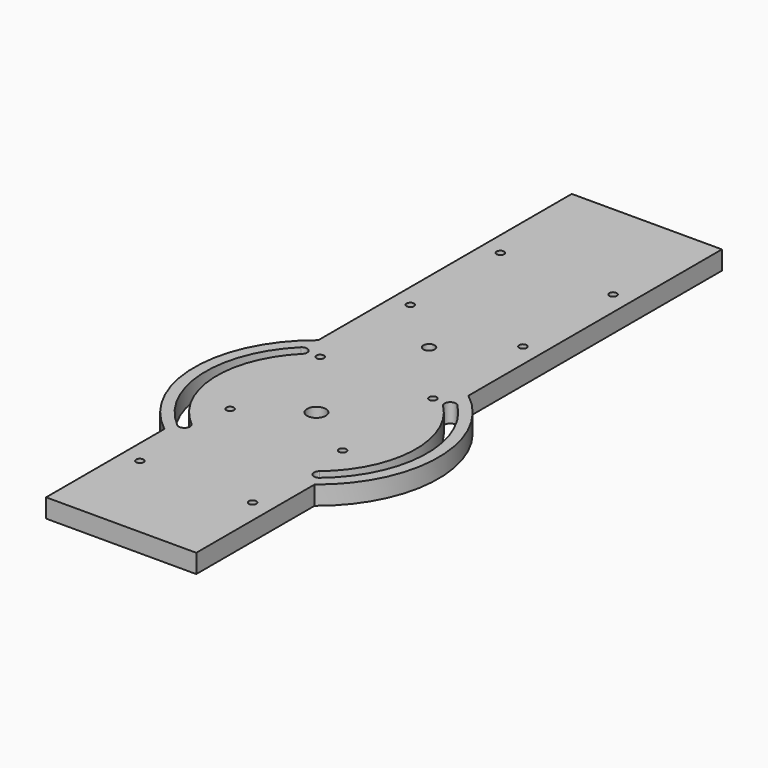
from build123d import *

# Parameters (mm, degrees)
SKETCH_R   = 2
SKETCH_R_2 = 5
SKETCH_R_3 = 3
PAD_DEPTH  = 10


with BuildPart() as part:
    # Sketch → Pad (new body)
    with BuildSketch(Plane.XY):
        with BuildLine():
            Line((0, 0), (80, 0))
            Line((80, 0), (80, 78.765246))
            ThreePointArc((80, 78.765246), (105, 130), (80, 181.234754))
            Line((80, 181.234754), (80, 350))
            Line((80, 350), (0, 350))
            Line((0, 350), (0, 181.234754))
            ThreePointArc((0, 181.234754), (-25, 130), (0, 78.765246))
            Line((0, 78.765246), (0, 0))
        make_face()
        with Locations((10, 50)):
            Circle(SKETCH_R, mode=Mode.SUBTRACT)
        with Locations((10, 110)):
            Circle(SKETCH_R, mode=Mode.SUBTRACT)
        with Locations((10, 170)):
            Circle(SKETCH_R, mode=Mode.SUBTRACT)
        with Locations((10, 230)):
            Circle(SKETCH_R, mode=Mode.SUBTRACT)
        with Locations((10, 290)):
            Circle(SKETCH_R, mode=Mode.SUBTRACT)
        with Locations((70, 50)):
            Circle(SKETCH_R, mode=Mode.SUBTRACT)
        with Locations((70, 110)):
            Circle(SKETCH_R, mode=Mode.SUBTRACT)
        with Locations((70, 170)):
            Circle(SKETCH_R, mode=Mode.SUBTRACT)
        with Locations((70, 230)):
            Circle(SKETCH_R, mode=Mode.SUBTRACT)
        with Locations((70, 290)):
            Circle(SKETCH_R, mode=Mode.SUBTRACT)
        with Locations((40, 130)):
            Circle(SKETCH_R_2, mode=Mode.SUBTRACT)
        with Locations((40, 205)):
            Circle(SKETCH_R_3, mode=Mode.SUBTRACT)
        with BuildLine():
            ThreePointArc((-1.7193, 171.7193), (-18.943845, 127.426456), (2.075531, 84.803378))
            ThreePointArc((2.075531, 84.803378), (6.302023, 85.173143), (5.932267, 89.399636))
            ThreePointArc((2.52333, 167.476649), (-12.949555, 127.688159), (5.932267, 89.399636))
            ThreePointArc((2.52333, 167.476649), (2.523346, 171.719295), (-1.7193, 171.7193))
        make_face(mode=Mode.SUBTRACT)
        with BuildLine():
            ThreePointArc((74.067734, 89.399637), (92.949555, 127.688158), (77.476671, 167.476648))
            ThreePointArc((81.7193, 171.7193), (77.476654, 171.719295), (77.476671, 167.476648))
            ThreePointArc((77.924469, 84.803378), (98.943845, 127.426456), (81.7193, 171.7193))
            ThreePointArc((74.067734, 89.399637), (73.697977, 85.173144), (77.924469, 84.803378))
        make_face(mode=Mode.SUBTRACT)
    extrude(amount=PAD_DEPTH)


solid = part.part
